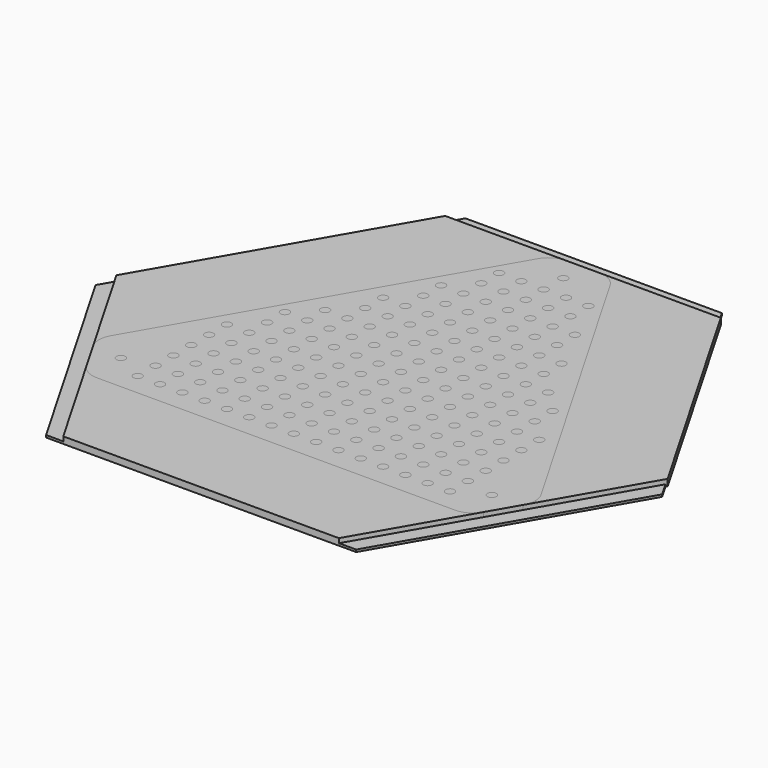
from build123d import *

# Parameters (mm, degrees)
PAD_DEPTH         = 1
EXTRUDE001_DEPTH  = 3
EXTRUDE_DEPTH     = 3
PAD001_DEPTH      = 100
CYLINDER001_R     = 2
CYLINDER001_DEPTH = 10
ARRAY001_X_COUNT  = 15
ARRAY001_X_PITCH  = 10
ARRAY001_Y_COUNT  = 15
ARRAY001_Y_PITCH  = 10
CYLINDER_R        = 2
CYLINDER_DEPTH    = 10
ARRAY_COUNT       = 3
EXTRUDE002_DEPTH  = 3
FILLET_R          = 10


with BuildPart() as body:
    # Sketch → Pad (new body)
    with BuildSketch(Plane.XY):
        Polygon((-57.5, 112.993848), (-127, -7.383684), (-69.5, -106.976605), (69.5, -106.976605), (127, -7.383684), (57.5, 112.993848), align=None)
    extrude(amount=PAD_DEPTH)


with BuildPart() as extrude_with_stepper:
    # RegularPolygon001 → Extrude001 (new body)
    with BuildSketch(Plane(origin=(0, 53.5, 0), x_dir=(0, 1, 0), z_dir=(0, 0, 1))):
        Polygon((-160.5, -185.329436), (160.5, 0), (-160.5, 185.329436), align=None)
    extrude(amount=EXTRUDE001_DEPTH)


with BuildPart() as extrude_body:
    # RegularPolygon → Extrude (new body)
    with BuildSketch(Plane(origin=(0, -53.5, 0), x_dir=(0, 1, 0), z_dir=(0, 0, 1))):
        Polygon((160.5, -185.329436), (160.5, 185.329436), (-160.5, 0), align=None)
    extrude(amount=EXTRUDE_DEPTH)


with BuildPart() as bottom_plate_common:
    # Common base: copy of Extrude body
    add(extrude_body.part)

    # Common: intersect Extrude with stepper
    add(extrude_with_stepper.part, mode=Mode.INTERSECT)


with BuildPart() as body004:
    # Sketch001 → Pad001 (new body)
    with BuildSketch(Plane.XY):
        Polygon((-87.197105, -15.975956), (-81.353172, -8.963243), (-74.570206, -4.643355), (-62.263012, 10.126923), (-63.821384, 15.581264), (-54.027576, 27.088631), (-46.519329, 30.420225), (-44.341633, 42.463326), (-43.562428, 49.086452), (-34.601746, 51.03442), (-32.65377, 66.618225), (-25.443405, 75.727448), (-25.443405, 86.487587), (-10.057248, 102.460983), (12.539282, 102.460983), (21.27026, 88.859512), (23.607815, 84.573952), (26.954313, 77.137306), (26.175106, 69.345398), (34.746201, 68.955795), (36.694183, 51.424023), (44.875675, 47.917656), (45.814751, 34.316177), (69.030594, 11.295709), (65.913818, 0), (75.264114, -2.340124), (76.822502, -21.040693), (90.847908, -21.040693), (102.925385, 117.655205), (-102.001717, 117.655205), align=None)
    extrude(amount=PAD001_DEPTH)


with BuildPart() as bolt_hole_cut:
    # Cylinder001 → Cylinder001 (new body)
    with BuildSketch(Plane.XY):
        Circle(CYLINDER001_R)
    extrude(amount=CYLINDER001_DEPTH)

    # Array001 X: bolt hole cut ×15


with BuildPart() as bolt_hole_cut_1:
    add(bolt_hole_cut.part)
    with Locations(*[(i * ARRAY001_X_PITCH, 0, 0) for i in range(1, ARRAY001_X_COUNT)]):
        add(bolt_hole_cut.part)

    # Array001 Y: bolt hole cut ×15


with BuildPart() as bolt_hole_cut_2:
    add(bolt_hole_cut_1.part)
    with Locations(*[(0, i * ARRAY001_Y_PITCH, 0) for i in range(1, ARRAY001_Y_COUNT)]):
        add(bolt_hole_cut_1.part)


with BuildPart() as bolt_hole_cut_3:
    # Array001 placement: moved
    add(bolt_hole_cut_2.part.moved(Location((-70, -55, 0))))

    # Cut001: cut Body004
    add(body004.part, mode=Mode.SUBTRACT)


with BuildPart() as hole_fusion:
    # Cylinder → Cylinder (new body)
    with BuildSketch(Plane(origin=(0, 96, 0), x_dir=(1, 0, 0), z_dir=(0, 0, 1))):
        Circle(CYLINDER_R)
    extrude(amount=CYLINDER_DEPTH)

    # Array: hole fusion ×3 about axis
    array_axis = Axis((0, 0, 0), (0, 0, 1))


with BuildPart() as hole_fusion_1:
    add(hole_fusion.part)
    for i in range(1, ARRAY_COUNT):
        add(hole_fusion.part.rotate(array_axis, i * 360 / ARRAY_COUNT))

    # Fusion: union bolt hole cut
    add(bolt_hole_cut_3.part)


with BuildPart() as bottom_plate_common_smaller_cut:
    # RegularPolygon002 → Extrude002 (new body)
    with BuildSketch(Plane(origin=(0, 32.5, 0), x_dir=(0, 1, 0), z_dir=(0, 0, 1))):
        Polygon((-97.5, -112.583302), (97.5, 0), (-97.5, 112.583302), align=None)
    extrude(amount=EXTRUDE002_DEPTH)

    # Common001: intersect Extrude body
    add(extrude_body.part, mode=Mode.INTERSECT)

    # Fillet
    fillet_edges = [bottom_plate_common_smaller_cut.edges().sort_by_distance(p)[0] for p in [
        (13.279056, 107, 1.5),
        (99.304246, -42, 1.5),
        (-13.279056, 107, 1.5),
        (86.02519, -65, 1.5),
        (-86.02519, -65, 1.5),
        (-99.304246, -42, 1.5),
    ]]
    fillet(fillet_edges, radius=FILLET_R)

    # Cut: cut hole fusion
    add(hole_fusion_1.part, mode=Mode.SUBTRACT)


solid = Compound([body.part, bottom_plate_common.part, bottom_plate_common_smaller_cut.part])
